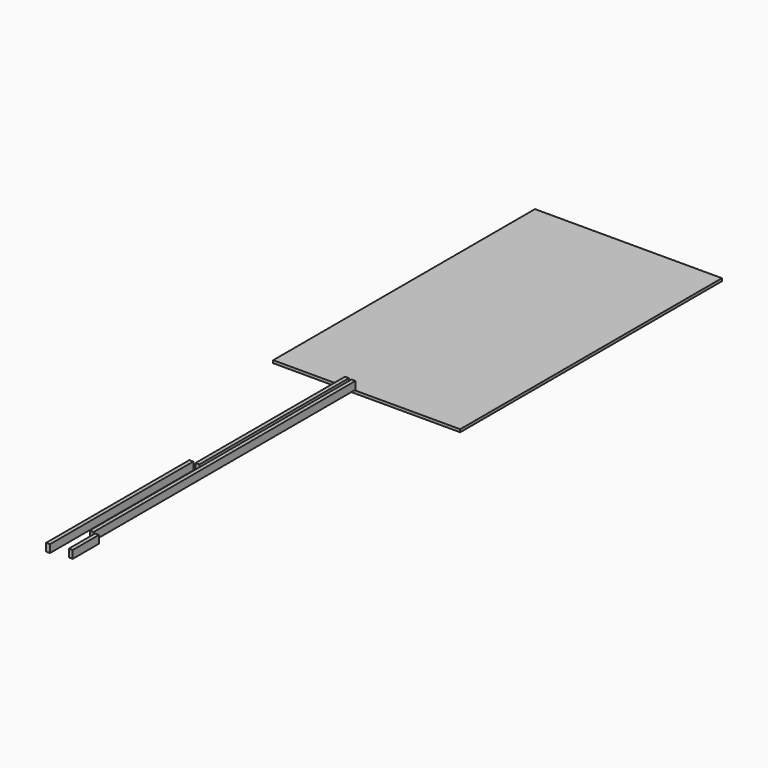
from build123d import *

# Parameters (mm, degrees)
F0_W      = 2400
F0_H      = 4200
F1_DEPTH  = 10
F2_W      = 2400
F2_H      = 4200
F4_DEPTH  = 25
F3_W      = 50
F3_H      = 100
F6_DEPTH  = 4200
F7_W      = 50
F7_H      = 100
F8_DEPTH  = 2400
F9_W      = 50
F9_H      = 100
F10_DEPTH = 420
F11_W     = 50
F11_H     = 100
F12_DEPTH = 2300


with BuildPart() as f1:
    # F0 (on Top) → F1 (new body)
    with BuildSketch(Plane.XY):
        Rectangle(F0_W, F0_H)
    extrude(amount=F1_DEPTH)

    # F2 (on face) → F4 (join)
    with BuildSketch(Plane.XY.offset(10)):
        Rectangle(F2_W, F2_H)
    extrude(amount=F4_DEPTH)


with BuildPart() as f6:
    # F3 (on face) → F6 (new body)
    with BuildSketch(Plane.XZ.offset(2100)):
        with Locations((-170.005275, 93.681164)):
            Rectangle(F3_W, F3_H)
    extrude(amount=F6_DEPTH)


with BuildPart() as f8:
    # F7 (on face) → F8 (new body)
    with BuildSketch(Plane.XZ.offset(2100)):
        with Locations((-253.530486, 98.069087)):
            Rectangle(F7_W, F7_H)
    extrude(amount=F8_DEPTH)


with BuildPart() as f10:
    # F9 (on face) → F10 (new body)
    with BuildSketch(Plane.XZ.offset(6300)):
        with Locations((-103.206538, 81.771708)):
            Rectangle(F9_W, F9_H)
    extrude(amount=F10_DEPTH)


with BuildPart() as f12:
    # F11 (on face) → F12 (new body)
    with BuildSketch(Plane.XZ.offset(4500)):
        with Locations((-331.024458, 105.966724)):
            Rectangle(F11_W, F11_H)
    extrude(amount=F12_DEPTH)


solid = Compound([f1.part, f6.part, f8.part, f10.part, f12.part])
